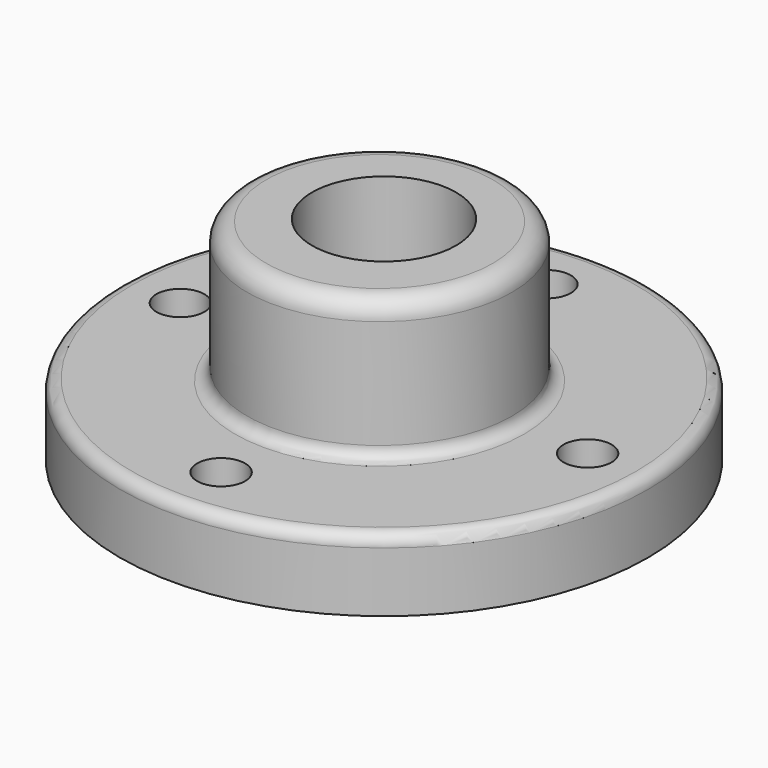
from build123d import *

# Parameters (mm, degrees)
F0_R     = 69.85
F1_DEPTH = 19.05
F2_R     = 35.052
F3_DEPTH = 37.084
F4_R     = 19.05
F5_DEPTH = 56.135
F7_D     = 12.7
F8_R     = 3.175
F9_R     = 5.08


with BuildPart() as f1:
    # F0 (on Top) → F1 (new body)
    with BuildSketch(Plane.XY):
        Circle(F0_R)
    extrude(amount=F1_DEPTH)

    # F2 (on face) → F3 (join)
    with BuildSketch(Plane.XY.offset(19.05)):
        with Locations((0, -1.475124)):
            Circle(F2_R)
    extrude(amount=F3_DEPTH)

    # F4 (on face) → F5 (cut, through all)
    with BuildSketch(Plane.XY.offset(56.134)):
        Circle(F4_R)
    extrude(amount=-F5_DEPTH, mode=Mode.SUBTRACT)

    # F7 (through all)
    with Locations(Plane.XY.offset(19.05)):
        with Locations((0, 53.848), (53.848, 0), (0, -53.848), (-53.848, 0)):
            Hole(F7_D / 2)

    # F8
    f8_edges = [f1.edges().sort_by_distance(p)[0] for p in [
        (-69.85, 0, 19.05),
        (-35.052, -1.475124, 19.05),
    ]]
    fillet(f8_edges, radius=F8_R)

    # F9
    f9_edges = [f1.edges().sort_by_distance(p)[0] for p in [
        (-35.052, -1.475124, 56.134),
    ]]
    fillet(f9_edges, radius=F9_R)


solid = f1.part
